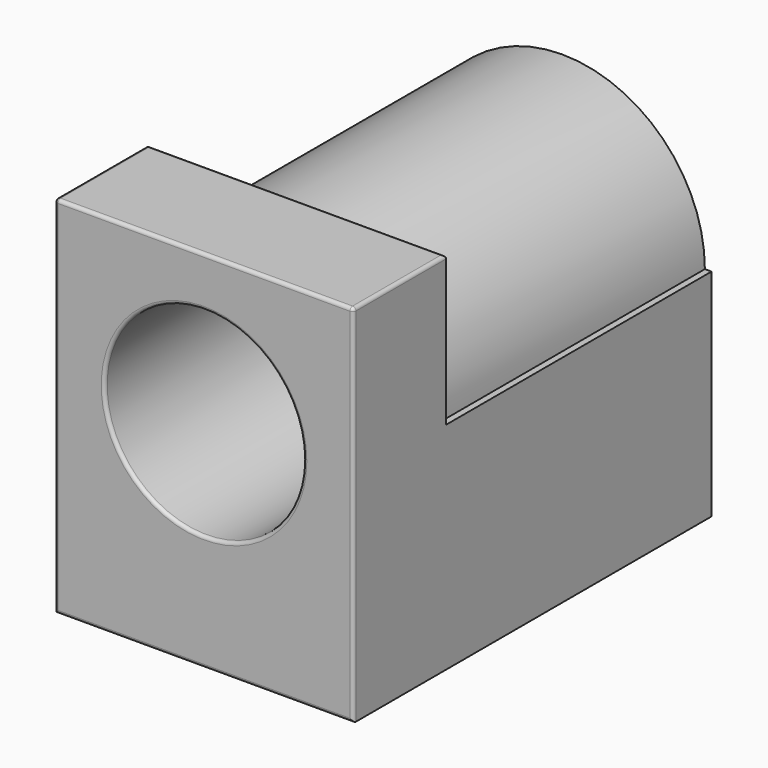
from build123d import *

# Parameters (mm, degrees)
SKETCH_W     = 9
SKETCH_H     = 11
PAD_DEPTH    = 3.5
PAD001_DEPTH = 13.5
SKETCH002_R  = 3
POCKET_DEPTH = 11
FILLET_R     = 0.1


with BuildPart() as part:
    # Sketch → Pad (new body)
    with BuildSketch(Plane.XZ):
        with Locations((0, -1)):
            Rectangle(SKETCH_W, SKETCH_H)
    extrude(amount=-PAD_DEPTH)

    # Sketch001 (on Face5 of Pad) → Pad001 (join)
    with BuildSketch(Plane.XZ):
        with BuildLine():
            Line((-4.5, -6.5), (4.5, -6.5))
            Line((4.5, -6.5), (4.5, 0))
            Line((4.5, 0), (4.3, 0))
            ThreePointArc((4.3, 0), (0, 4.3), (-4.3, 0))
            Line((-4.5, 0), (-4.3, 0))
            Line((-4.5, 0), (-4.5, -6.5))
        make_face()
    extrude(amount=-PAD001_DEPTH)

    # Sketch002 (on Face8 of Pad001) → Pocket (cut)
    with BuildSketch(Plane.XZ):
        Circle(SKETCH002_R)
    extrude(amount=-POCKET_DEPTH, mode=Mode.SUBTRACT)

    # Fillet
    fillet_edges = [part.edges().sort_by_distance(p)[0] for p in [
        (0, 0, 4.5),
        (4.5, 1.75, 4.5),
        (0, 3.5, 4.5),
        (-4.5, 1.75, 4.5),
        (4.5, 0, 2.25),
        (-4.5, 0, 2.25),
        (0, 0, -6.5),
        (-3, 0, 0),
    ]]
    fillet(fillet_edges, radius=FILLET_R)


solid = part.part
